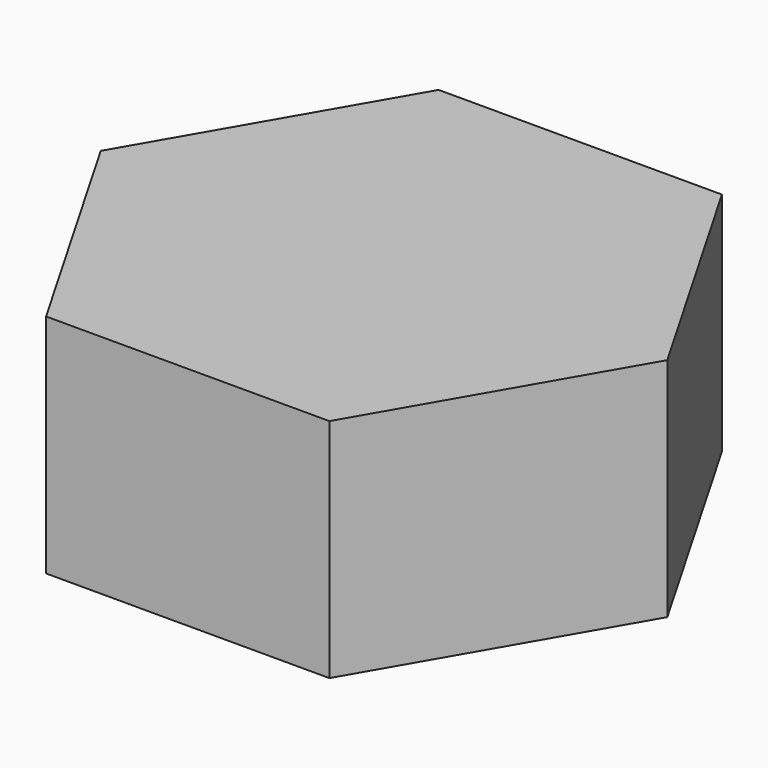
from build123d import *

# Parameters (mm, degrees)
EXTRUDE_DEPTH = 2.4


with BuildPart() as part:
    # Sketch → Extrude (new body)
    with BuildSketch(Plane.XY):
        Polygon((-3.005, 0), (-1.5025, -2.602406), (1.5025, -2.602406), (3.005, 0), (1.5025, 2.602406), (-1.5025, 2.602406), align=None)
    extrude(amount=EXTRUDE_DEPTH)


solid = part.part
